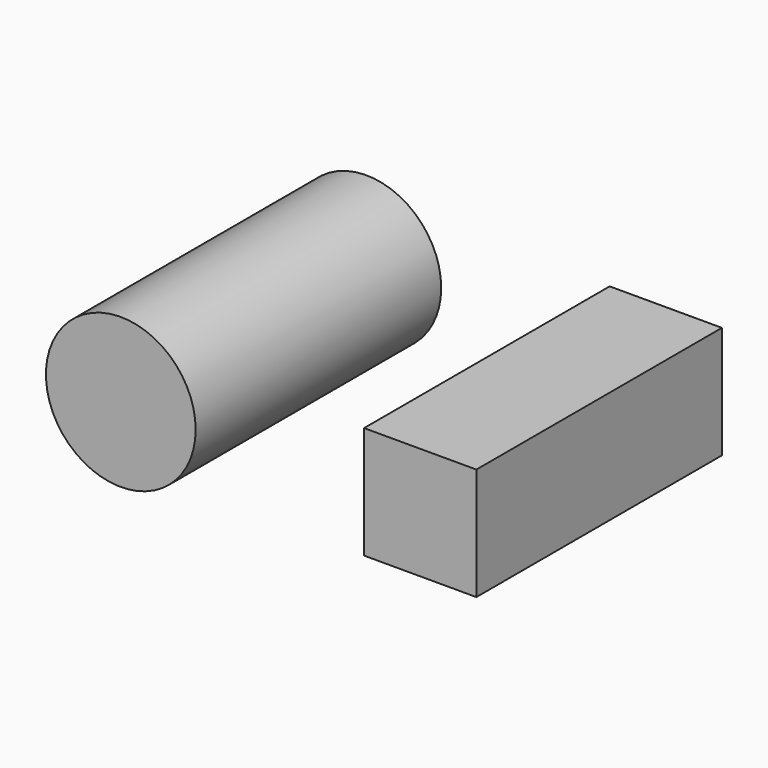
from build123d import *

# Parameters (mm, degrees)
F0_R     = 12.7
F1_DEPTH = 52.07


with BuildPart() as f1:
    # F0 (on Front) → F1 (new body)
    with BuildSketch(Plane.XZ):
        with Locations((-82.55, 0)):
            Circle(F0_R)
        Polygon((-22.225, -9.525), (-22.225, 9.525), (-41.275, 9.525), (-41.275, 0), (-41.275, -9.525), align=None)
    extrude(amount=F1_DEPTH)


solid = f1.part
